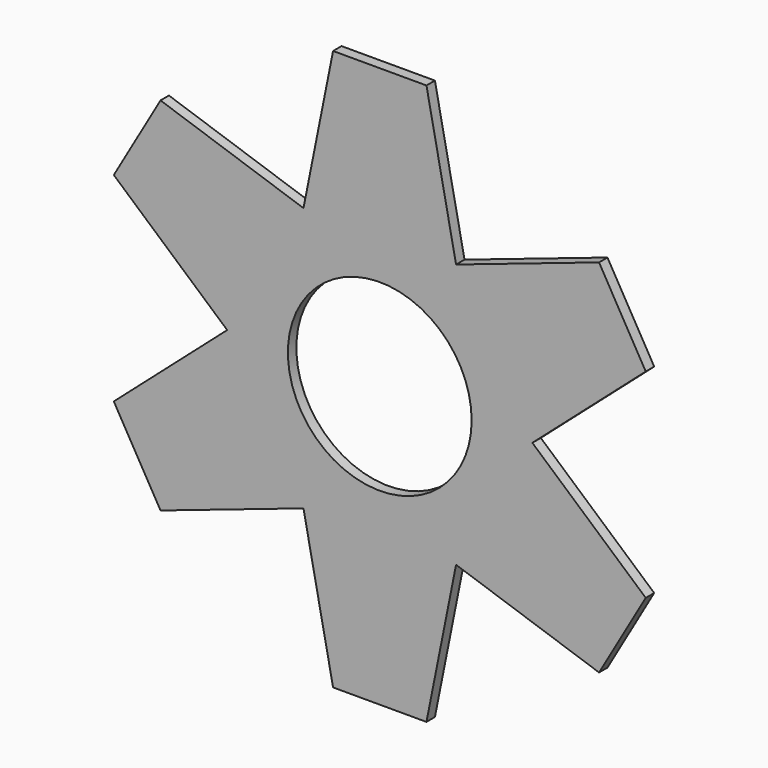
from build123d import *

# Parameters (mm, degrees)
F0_R     = 26.0720461281
F1_DEPTH = 3


with BuildPart() as f1:
    # F0 (on Front) → F1 (new body)
    with BuildSketch(Plane.XZ):
        Polygon((-13.25, 79.5), (-21.6506350946, 37.5), (0, 37.5), (0, 79.5), align=None)
        Polygon((0, 37.5), (-21.6506350946, 37.5), (-43.3012701892, 0), (-32.4759526419, -18.75), (-21.6506350946, -37.5), (0, -37.5), (21.6506350946, -37.5), (43.3012701892, 0), (21.6506350946, 37.5), align=None)
        Circle(F0_R, mode=Mode.SUBTRACT)
        Polygon((-43.3012701892, 0), (-21.6506350946, 37.5), (-62.2240208464, 51.2248376897), (-75.4740207353, 28.2751644252), align=None)
        Polygon((0, 79.5), (0, 37.5), (21.6506350946, 37.5), (13.25, 79.5), align=None)
        Polygon((-32.4759526419, -18.75), (-43.3012701892, 0), (-75.4740196009, -28.2751633999), (-68.8490196009, -39.75), align=None)
        Polygon((62.2240210561, 51.2248370699), (21.6506350946, 37.5), (43.3012701892, 0), (75.4740211672, 28.2751639337), align=None)
        Polygon((-21.6506350946, -37.5), (-32.4759526419, -18.75), (-68.8490196009, -39.75), (-62.2240196009, -51.2248366001), align=None)
        Polygon((75.4740211672, -28.2751639337), (43.3012701892, 0), (21.6506350946, -37.5), (62.2240210561, -51.2248370699), align=None)
        Polygon((0, -37.5), (-21.6506350946, -37.5), (-13.25, -79.5), (0, -79.5), align=None)
        Polygon((13.25, -79.5), (21.6506350946, -37.5), (0, -37.5), (0, -79.5), align=None)
    extrude(amount=F1_DEPTH)


solid = f1.part
